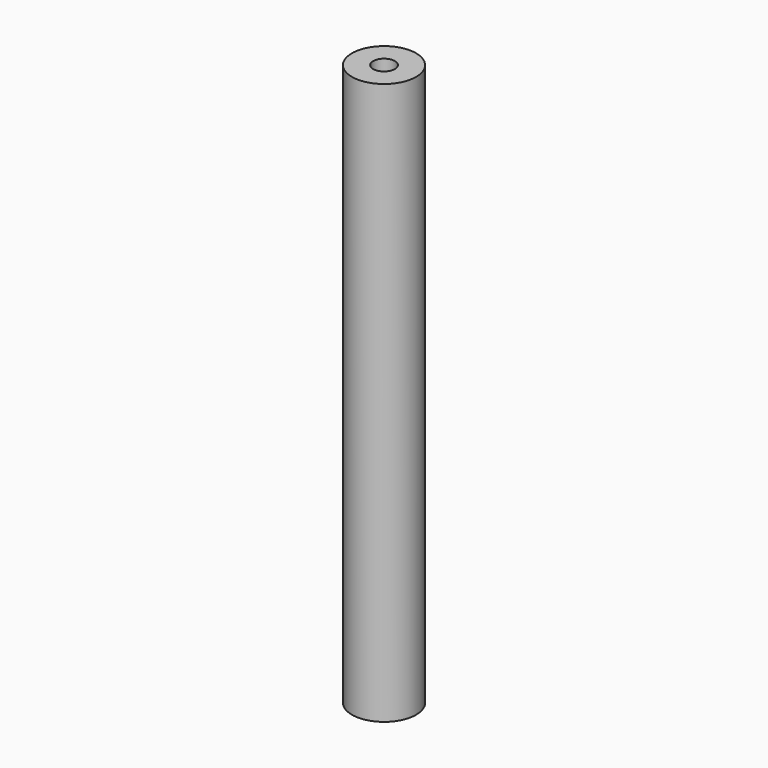
from build123d import *

# Parameters (mm, degrees)
SKETCH_R        = 4
PAD_DEPTH       = 70
SKETCH001_R     = 1.35
POCKET_DEPTH    = 10
SKETCH002_R     = 1.35
POCKET001_DEPTH = 10


with BuildPart() as part:
    # Sketch → Pad (new body)
    with BuildSketch(Plane.XY):
        Circle(SKETCH_R)
    extrude(amount=PAD_DEPTH)

    # Sketch001 → Pocket (cut)
    with BuildSketch(Plane.XY.offset(70)):
        Circle(SKETCH001_R)
    extrude(amount=-POCKET_DEPTH, mode=Mode.SUBTRACT)

    # Sketch002 → Pocket001 (cut)
    with BuildSketch(Plane(origin=(0, 0, 0), x_dir=(1, 0, 0), z_dir=(0, 0, -1))):
        Circle(SKETCH002_R)
    extrude(amount=-POCKET001_DEPTH, mode=Mode.SUBTRACT)


solid = part.part
